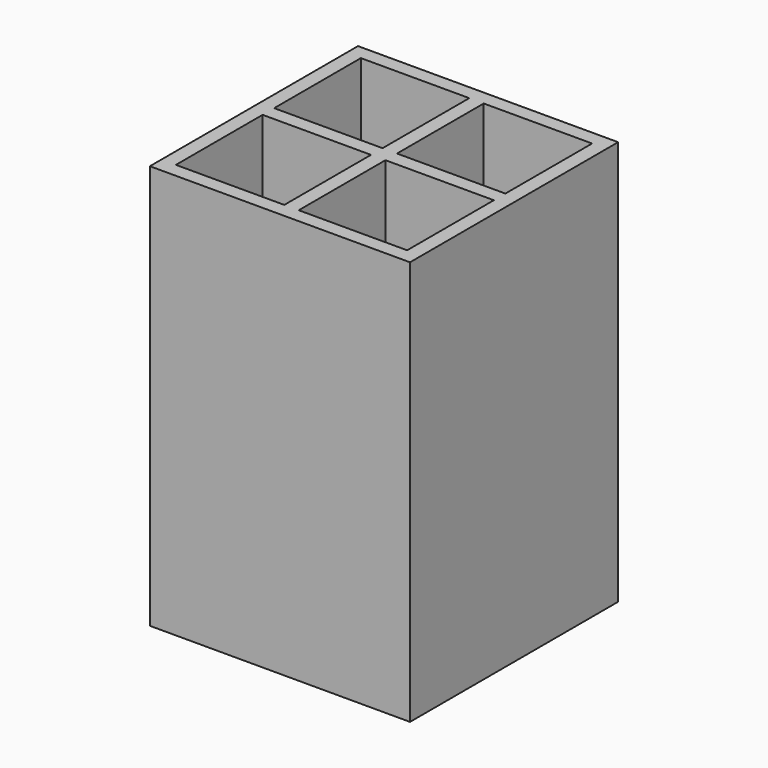
from build123d import *

# Parameters (mm, degrees)
F0_W     = 57.15
F0_H     = 88.9
F1_DEPTH = 57.15
F2_W     = 23.8125
F2_H     = 23.8125
F3_DEPTH = 85.725
F4_W     = 23.8125
F4_H     = 23.8125
F5_DEPTH = 85.725
F6_W     = 23.8125
F6_H     = 23.8125
F7_DEPTH = 85.725
F8_W     = 23.8125
F8_H     = 23.8125
F9_DEPTH = 85.725


with BuildPart() as f1:
    # F0 (on Front) → F1 (new body)
    with BuildSketch(Plane.XZ):
        with Locations((-1.955131, 13.187643)):
            Rectangle(F0_W, F0_H)
    extrude(amount=F1_DEPTH)

    # F2 (on face) → F3 (cut)
    with BuildSketch(Plane.XY.offset(57.637643)):
        with Locations((-15.448881, -15.08125)):
            Rectangle(F2_W, F2_H)
    extrude(amount=-F3_DEPTH, mode=Mode.SUBTRACT)

    # F4 (on face) → F5 (cut)
    with BuildSketch(Plane.XY.offset(57.637643)):
        with Locations((11.538619, -15.08125)):
            Rectangle(F4_W, F4_H)
    extrude(amount=-F5_DEPTH, mode=Mode.SUBTRACT)

    # F6 (on face) → F7 (cut)
    with BuildSketch(Plane.XY.offset(57.637643)):
        with Locations((-15.448881, -42.06875)):
            Rectangle(F6_W, F6_H)
    extrude(amount=-F7_DEPTH, mode=Mode.SUBTRACT)

    # F8 (on face) → F9 (cut)
    with BuildSketch(Plane.XY.offset(57.637643)):
        with Locations((11.538619, -42.06875)):
            Rectangle(F8_W, F8_H)
    extrude(amount=-F9_DEPTH, mode=Mode.SUBTRACT)


solid = f1.part
